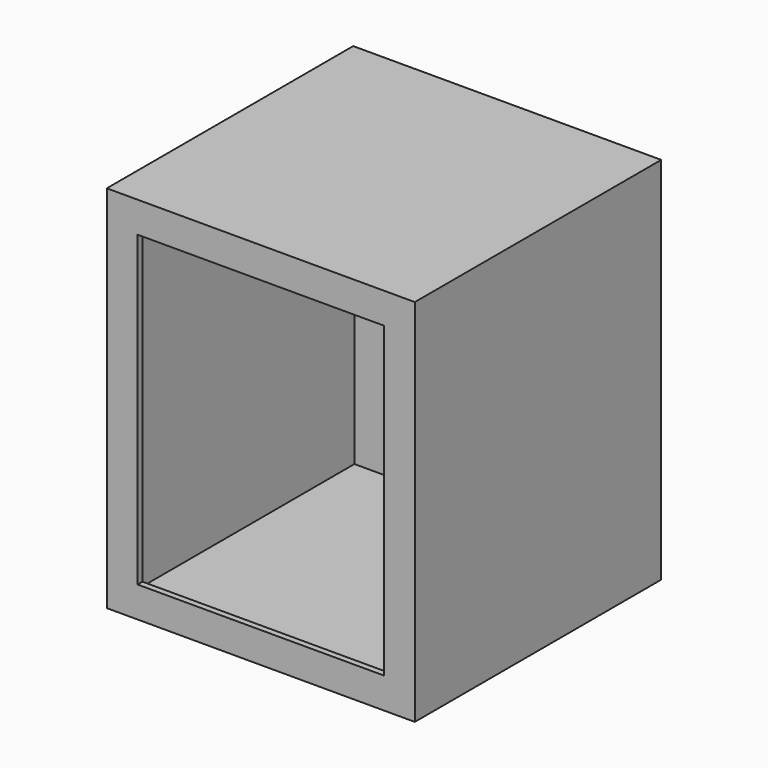
from build123d import *

# Parameters (mm, degrees)
F1_DEPTH = 50
F2_W     = 100
F2_H     = 120
F3_DEPTH = 2
F5_D     = 10
F6_W     = 79.999998
F6_H     = 100.000001
F7_DEPTH = 2


with BuildPart() as f1:
    # F0 (on Front) → F1 (new body, symmetric)
    with BuildSketch(Plane.XZ):
        Polygon((50, -60), (50, 0), (50, 60), (-50, 60), (-50, -60), align=None)
        Polygon((-48, -58), (-48, 58), (48, 58), (48, 0), (48, -58), align=None, mode=Mode.SUBTRACT)
    extrude(amount=F1_DEPTH, both=True)

    # F2 (on face) → F3 (join)
    with BuildSketch(Plane(origin=(0, 50, 0), x_dir=(-1, 0, 0), z_dir=(0, 1, 0))):
        Rectangle(F2_W, F2_H)
    extrude(amount=-F3_DEPTH)

    # F5 (through all)
    with Locations(Plane(origin=(0, 50, 0), x_dir=(-1, 0, 0), z_dir=(0, 1, 0))):
        with Locations((0, 0)):
            Hole(F5_D / 2)

    # F6 (on face) → F7 (join)
    with BuildSketch(Plane.XZ.offset(50)):
        Polygon((50, 55), (50, 60), (-50, 60), (-50, -60), (50, -60), align=None)
        with Locations((0, 0)):
            Rectangle(F6_W, F6_H, mode=Mode.SUBTRACT)
    extrude(amount=-F7_DEPTH)


solid = f1.part
